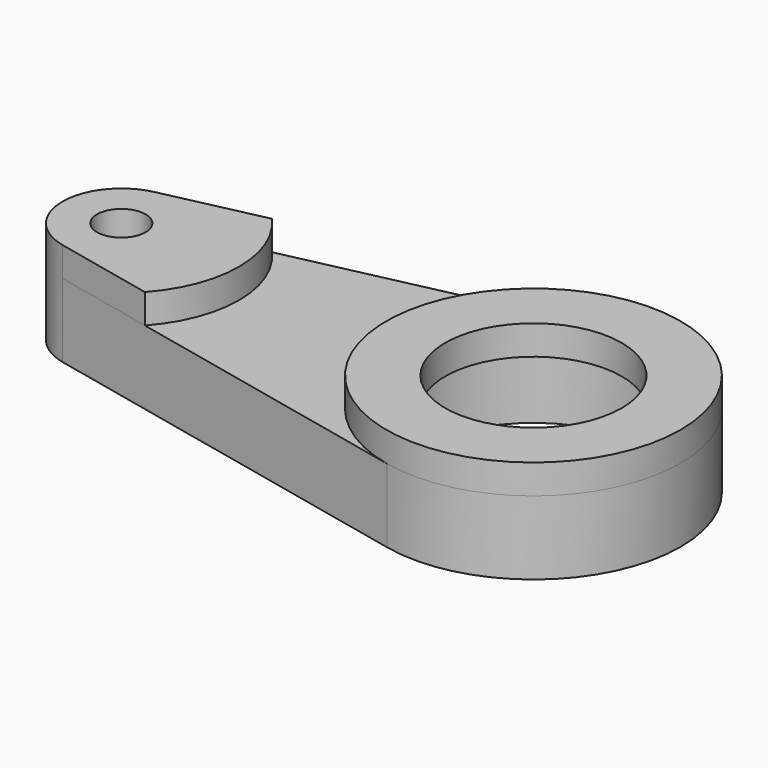
from build123d import *

# Parameters (mm, degrees)
SKETCH_R      = 8
PAD_DEPTH     = 5
SKETCH001_R   = 10
SKETCH001_R_2 = 6
PAD001_DEPTH  = 2
PAD002_DEPTH  = 2
SKETCH003_R   = 1.65
POCKET_DEPTH  = 7.001


with BuildPart() as part:
    # Sketch → Pad (new body)
    with BuildSketch(Plane.XY):
        with BuildLine():
            ThreePointArc((-2.142857, -9.76771), (10, 0), (-2.142857, 9.76771))
            Line((-28.857143, 3.907084), (-2.142857, 9.76771))
            ThreePointArc((-28.857143, 3.907084), (-32, 0), (-28.857143, -3.907084))
            Line((-2.142857, -9.76771), (-28.857143, -3.907084))
        make_face()
        Circle(SKETCH_R, mode=Mode.SUBTRACT)
    extrude(amount=PAD_DEPTH)

    # Sketch001 (on Face7 of Pad) → Pad001 (join)
    with BuildSketch(Plane.XY.offset(5)):
        Circle(SKETCH001_R)
        Circle(SKETCH001_R_2, mode=Mode.SUBTRACT)
    extrude(amount=PAD001_DEPTH)

    # Sketch002 (on Face7 of Pad001) → Pad002 (join)
    with BuildSketch(Plane.XY.offset(5)):
        with BuildLine():
            ThreePointArc((-28.857143, 3.907084), (-32, 0), (-28.857143, -3.907084))
            Line((-28.857143, -3.907084), (-22.089875, -5.391699))
            ThreePointArc((-22.089875, -5.391699), (-20, 0), (-22.089875, 5.391699))
            Line((-28.857143, 3.907084), (-22.089875, 5.391699))
        make_face()
    extrude(amount=PAD002_DEPTH)

    # Sketch003 (on Face14 of Pad002) → Pocket (cut, through all)
    with BuildSketch(Plane.XY.offset(7)):
        with Locations((-28, 0)):
            Circle(SKETCH003_R)
    extrude(amount=-POCKET_DEPTH, mode=Mode.SUBTRACT)


solid = part.part
